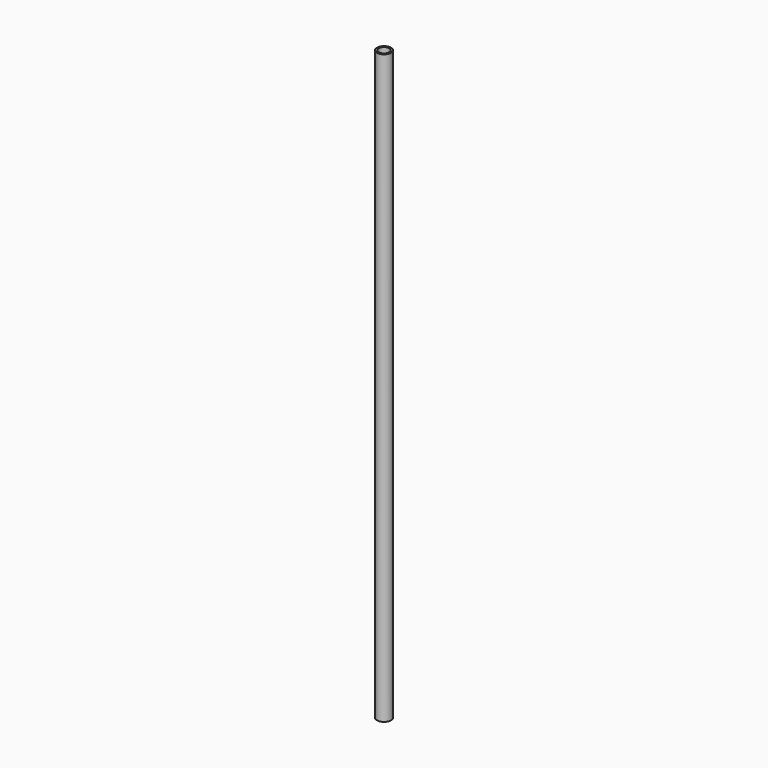
from build123d import *

# Parameters (mm, degrees)
F0_R     = 24.4
F0_R_2   = 18.365851
F1_DEPTH = 60
F2_R     = 24.4
F2_R_2   = 18.365851
F3_DEPTH = 1975


with BuildPart() as f1:
    # F0 (on Top) → F1 (new body)
    with BuildSketch(Plane.XY):
        Circle(F0_R)
        Circle(F0_R_2, mode=Mode.SUBTRACT)
    extrude(amount=F1_DEPTH)

    # F2 (on Top) → F3 (join)
    with BuildSketch(Plane.XY):
        Circle(F2_R)
        Circle(F2_R_2, mode=Mode.SUBTRACT)
    extrude(amount=-F3_DEPTH)


solid = f1.part
